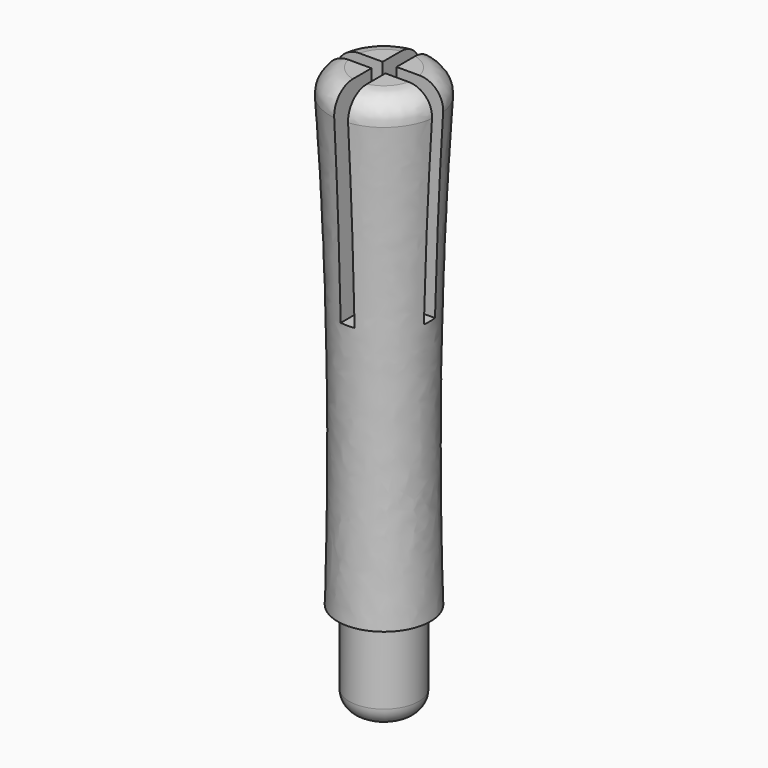
from build123d import *

# Parameters (mm, degrees)
EXTRUDE005_DEPTH = 4.5
SKETCH003_R      = 1
SKETCH004_R      = 1
SKETCH005_R      = 1.2
FILLET006_R      = 0.5
SKETCH007_R      = 0.75
EXTRUDE006_DEPTH = 2
FILLET013_R      = 0.4


with BuildPart() as extrude005:
    # Sketch006 → Extrude005 (new body)
    with BuildSketch(Plane.XY.offset(10.2)):
        Polygon((-2.65, 2.1), (-2.35, 2.1), (-2.35, 0.15), (-0.910869, 0.15), (-0.910869, -0.15), (-2.35, -0.15), (-2.35, -2.1), (-2.65, -2.1), (-2.65, -0.15), (-4.365716, -0.15), (-4.365716, 0.15), (-2.65, 0.15), align=None)
    extrude(amount=-EXTRUDE005_DEPTH)


with BuildPart() as cut002:
    # Sketch003 → Loft section 0
    with BuildSketch(Plane(origin=(0, 0, 0), x_dir=(1, 0, 0), z_dir=(0, 0, -1))):
        with Locations((-2.5, 0)):
            Circle(SKETCH003_R)
    # Sketch004 → Loft section 1
    with BuildSketch(Plane(origin=(0, 0, 6), x_dir=(1, 0, 0), z_dir=(0, 0, -1))):
        with Locations((-2.5, 0)):
            Circle(SKETCH004_R)
    # Sketch005 → Loft section 2
    with BuildSketch(Plane(origin=(0, 0, 10.2), x_dir=(1, 0, 0), z_dir=(0, 0, -1))):
        with Locations((-2.5, 0)):
            Circle(SKETCH005_R)
    loft()

    # Fillet006
    fillet006_edges = [cut002.edges().sort_by_distance(p)[0] for p in [
        (-3.7, 0, 10.2),
    ]]
    fillet(fillet006_edges, radius=FILLET006_R)

    # Cut002: cut Extrude005
    add(extrude005.part, mode=Mode.SUBTRACT)


with BuildPart() as pin003:
    # Sketch007 → Extrude006 (new body)
    with BuildSketch(Plane(origin=(0, 0, 0), x_dir=(1, 0, 0), z_dir=(0, 0, -1))):
        with Locations((-2.5, 0)):
            Circle(SKETCH007_R)
    extrude(amount=EXTRUDE006_DEPTH)

    # Fusion001: union Cut002
    add(cut002.part)

    # Fillet013
    fillet013_edges = [pin003.edges().sort_by_distance(p)[0] for p in [
        (-3.25, 0, -2),
    ]]
    fillet(fillet013_edges, radius=FILLET013_R)


with BuildPart() as part_mirroring:
    # Part__Mirroring: instance of pin003
    add(pin003.part.mirror(Plane(origin=(0, 0, 0), x_dir=(0, -1, 0), z_dir=(1, 0, 0))))


solid = part_mirroring.part
